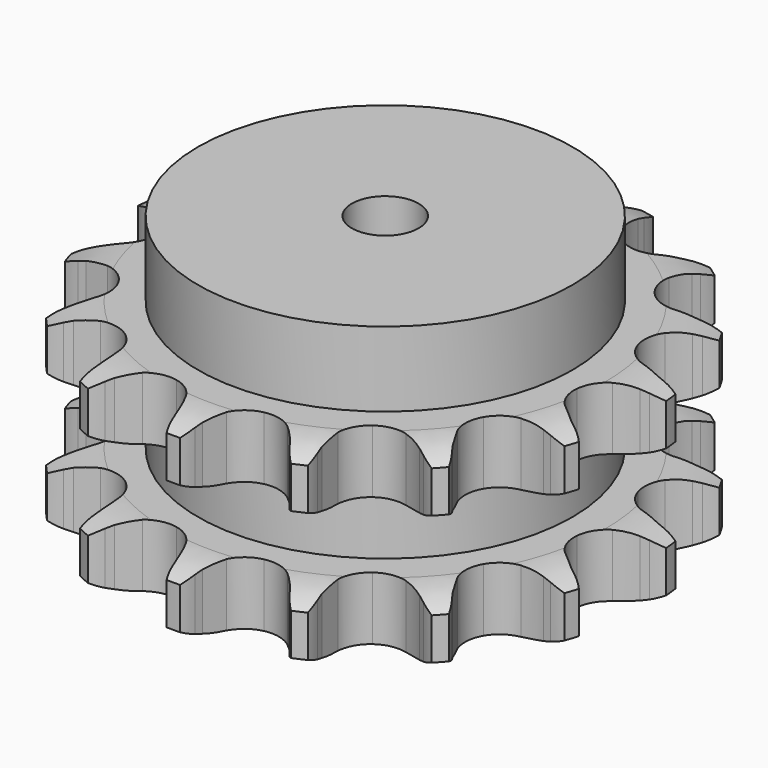
from build123d import *

# Parameters (mm, degrees)
PAD_DEPTH         = 72
SKETCH001_R       = 70
PAD001_DEPTH      = 100
SKETCH002_R       = 12.5
POCKET_DEPTH      = 0.001
POCKET_DEPTH_BACK = 100.001


with BuildPart() as part:
    # Sprocket → Pad (new body)
    with BuildSketch(Plane.XY):
        with BuildLine():
            ThreePointArc((-21.417611, 100.761939), (-18.006479, 97.286525), (-15.475786, 93.126005))
            Line((-15.475786, 93.126005), (-14.291581, 90.5553))
            ThreePointArc((-14.291581, 90.5553), (-12.337873, 86.926869), (-9.948712, 83.569131))
            ThreePointArc((-9.948712, 83.569131), (-5.511231, 80.070903), (0, 78.823839))
            ThreePointArc((0, 78.823839), (5.511231, 80.070903), (9.948712, 83.569131))
            ThreePointArc((9.948712, 83.569131), (12.337873, 86.926869), (14.291581, 90.5553))
            Line((14.291581, 90.5553), (15.475786, 93.126005))
            ThreePointArc((15.475786, 93.126005), (18.006479, 97.286525), (21.417611, 100.761939))
            ThreePointArc((21.417611, 100.761939), (23.120258, 96.199558), (23.739924, 91.369408))
            Line((23.739924, 91.369408), (23.776149, 88.539292))
            ThreePointArc((23.776149, 88.539292), (24.085135, 84.429911), (24.902028, 80.390706))
            ThreePointArc((24.902028, 80.390706), (27.533011, 75.39003), (32.060544, 72.00916))
            ThreePointArc((32.060544, 72.00916), (37.60253, 70.906791), (43.079228, 72.297695))
            Line((43.079228, 72.297695), (49.888168, 76.913473))
            ThreePointArc((49.888168, 76.913473), (50.931931, 77.869606), (52.015593, 78.78027))
            ThreePointArc((52.015593, 78.78027), (56.019731, 81.551768), (60.549534, 83.339284))
            ThreePointArc((60.549534, 83.339284), (60.249292, 78.478813), (58.850787, 73.814211))
            Line((58.850787, 73.814211), (57.732768, 71.214037))
            ThreePointArc((57.732768, 71.214037), (56.343604, 67.334254), (55.44698, 63.311997))
            ThreePointArc((55.44698, 63.311997), (55.816544, 57.673535), (58.577528, 52.743443))
            ThreePointArc((58.577528, 52.743443), (63.192011, 49.48225), (68.760955, 48.52533))
            Line((68.760955, 48.52533), (76.858637, 49.972608))
            ThreePointArc((76.858637, 49.972608), (78.201056, 50.421542), (79.561431, 50.81271))
            ThreePointArc((79.561431, 50.81271), (84.346664, 51.71597), (89.211893, 51.50651))
            ThreePointArc((89.211893, 51.50651), (86.960676, 47.188368), (83.785813, 43.495866))
            Line((83.785813, 43.495866), (81.706866, 41.575228))
            ThreePointArc((81.706866, 41.575228), (78.859752, 38.595894), (76.404646, 35.286069))
            ThreePointArc((76.404646, 35.286069), (74.448891, 29.984762), (74.965926, 24.357906))
            ThreePointArc((74.965926, 24.357906), (77.855019, 19.501778), (82.553288, 16.362495))
            Line((82.553288, 16.362495), (90.539549, 14.391025))
            ThreePointArc((90.539549, 14.391025), (91.948508, 14.255136), (93.350375, 14.059171))
            ThreePointArc((93.350375, 14.059171), (98.089291, 12.938011), (102.448705, 10.767793))
            ThreePointArc((102.448705, 10.767793), (98.635769, 7.738626), (94.233511, 5.65669))
            Line((94.233511, 5.65669), (91.553105, 4.747684))
            ThreePointArc((91.553105, 4.747684), (87.740333, 3.183952), (84.151254, 1.158859))
            ThreePointArc((84.151254, 1.158859), (80.208347, -2.888649), (78.392034, -8.239335))
            ThreePointArc((78.392034, -8.239335), (79.056186, -13.850728), (82.071407, -18.629565))
            Line((82.071407, -18.629565), (88.565351, -23.678897))
            ThreePointArc((88.565351, -23.678897), (89.797228, -24.376113), (90.998191, -25.125327))
            ThreePointArc((90.998191, -25.125327), (94.87139, -28.077048), (97.971205, -31.832774))
            ThreePointArc((97.971205, -31.832774), (93.255841, -33.049195), (88.387379, -33.160578))
            Line((88.387379, -33.160578), (85.568981, -32.900777))
            ThreePointArc((85.568981, -32.900777), (81.449813, -32.778523), (77.347347, -33.168729))
            ThreePointArc((77.347347, -33.168729), (72.099052, -35.262586), (68.263447, -39.41192))
            ThreePointArc((68.263447, -39.41192), (66.587821, -44.808318), (67.398635, -50.400403))
            Line((67.398635, -50.400403), (71.277399, -57.654522))
            ThreePointArc((71.277399, -57.654522), (72.119192, -58.792511), (72.911593, -59.965427))
            ThreePointArc((72.911593, -59.965427), (75.249363, -64.23733), (76.553593, -68.929165))
            ThreePointArc((76.553593, -68.929165), (71.751132, -68.12251), (67.258267, -66.244082))
            Line((67.258267, -66.244082), (64.789202, -64.860395))
            ThreePointArc((64.789202, -64.860395), (61.07588, -63.073294), (57.16938, -61.761141))
            ThreePointArc((57.16938, -61.761141), (51.523176, -61.539301), (46.33149, -63.769826))
            ThreePointArc((46.33149, -63.769826), (42.605817, -68.018142), (41.072026, -73.456554))
            Line((41.072026, -73.456554), (41.664937, -81.661157))
            ThreePointArc((41.664937, -81.661157), (41.971092, -83.043149), (42.217918, -84.43696))
            ThreePointArc((42.217918, -84.43696), (42.616037, -89.290395), (41.89917, -94.107077))
            ThreePointArc((41.89917, -94.107077), (37.84, -91.416824), (34.499588, -87.873382))
            Line((34.499588, -87.873382), (32.806781, -85.605062))
            ThreePointArc((32.806781, -85.605062), (30.141373, -82.46212), (27.106308, -79.674492))
            ThreePointArc((27.106308, -79.674492), (22.038474, -77.175313), (16.388398, -77.101349))
            ThreePointArc((16.388398, -77.101349), (11.25688, -79.467011), (7.643691, -83.811399))
            Line((7.643691, -83.811399), (4.848229, -91.547836))
            ThreePointArc((4.848229, -91.547836), (4.565808, -92.934872), (4.224382, -94.308575))
            ThreePointArc((4.224382, -94.308575), (2.614012, -98.904338), (0, -103.013021))
            ThreePointArc((0, -103.013021), (-2.614012, -98.904338), (-4.224382, -94.308575))
            Line((-4.224382, -94.308575), (-4.848229, -91.547836))
            ThreePointArc((-4.848229, -91.547836), (-6.004852, -87.592496), (-7.643691, -83.811399))
            ThreePointArc((-7.643691, -83.811399), (-11.25688, -79.467011), (-16.388398, -77.101349))
            ThreePointArc((-16.388398, -77.101349), (-22.038474, -77.175313), (-27.106308, -79.674492))
            Line((-27.106308, -79.674492), (-32.806781, -85.605062))
            ThreePointArc((-32.806781, -85.605062), (-33.628945, -86.757312), (-34.499588, -87.873382))
            ThreePointArc((-34.499588, -87.873382), (-37.84, -91.416824), (-41.89917, -94.107077))
            ThreePointArc((-41.89917, -94.107077), (-42.616037, -89.290395), (-42.217918, -84.43696))
            Line((-42.217918, -84.43696), (-41.664937, -81.661157))
            ThreePointArc((-41.664937, -81.661157), (-41.112783, -77.577334), (-41.072026, -73.456554))
            ThreePointArc((-41.072026, -73.456554), (-42.605817, -68.018142), (-46.33149, -63.769826))
            ThreePointArc((-46.33149, -63.769826), (-51.523176, -61.539301), (-57.16938, -61.761141))
            Line((-57.16938, -61.761141), (-64.789202, -64.860395))
            ThreePointArc((-64.789202, -64.860395), (-66.008947, -65.578624), (-67.258267, -66.244082))
            ThreePointArc((-67.258267, -66.244082), (-71.751132, -68.12251), (-76.553593, -68.929165))
            ThreePointArc((-76.553593, -68.929165), (-75.249363, -64.23733), (-72.911593, -59.965427))
            Line((-72.911593, -59.965427), (-71.277399, -57.654522))
            ThreePointArc((-71.277399, -57.654522), (-69.11194, -54.148345), (-67.398635, -50.400403))
            ThreePointArc((-67.398635, -50.400403), (-66.587821, -44.808318), (-68.263447, -39.41192))
            ThreePointArc((-68.263447, -39.41192), (-72.099052, -35.262586), (-77.347347, -33.168729))
            Line((-77.347347, -33.168729), (-85.568981, -32.900777))
            ThreePointArc((-85.568981, -32.900777), (-86.975404, -33.060797), (-88.387379, -33.160578))
            ThreePointArc((-88.387379, -33.160578), (-93.255841, -33.049195), (-97.971205, -31.832774))
            ThreePointArc((-97.971205, -31.832774), (-94.87139, -28.077048), (-90.998191, -25.125327))
            Line((-90.998191, -25.125327), (-88.565351, -23.678897))
            ThreePointArc((-88.565351, -23.678897), (-85.161015, -21.356616), (-82.071407, -18.629565))
            ThreePointArc((-82.071407, -18.629565), (-79.056186, -13.850728), (-78.392034, -8.239335))
            ThreePointArc((-78.392034, -8.239335), (-80.208347, -2.888649), (-84.151254, 1.158859))
            Line((-84.151254, 1.158859), (-91.553105, 4.747684))
            ThreePointArc((-91.553105, 4.747684), (-92.903022, 5.173543), (-94.233511, 5.65669))
            ThreePointArc((-94.233511, 5.65669), (-98.635769, 7.738626), (-102.448705, 10.767793))
            ThreePointArc((-102.448705, 10.767793), (-98.089291, 12.938011), (-93.350375, 14.059171))
            Line((-93.350375, 14.059171), (-90.539549, 14.391025))
            ThreePointArc((-90.539549, 14.391025), (-86.484977, 15.127866), (-82.553288, 16.362495))
            ThreePointArc((-82.553288, 16.362495), (-77.855019, 19.501778), (-74.965926, 24.357906))
            ThreePointArc((-74.965926, 24.357906), (-74.448891, 29.984762), (-76.404646, 35.286069))
            Line((-76.404646, 35.286069), (-81.706866, 41.575228))
            ThreePointArc((-81.706866, 41.575228), (-82.766865, 42.51333), (-83.785813, 43.495866))
            ThreePointArc((-83.785813, 43.495866), (-86.960676, 47.188368), (-89.211893, 51.50651))
            ThreePointArc((-89.211893, 51.50651), (-84.346664, 51.71597), (-79.561431, 50.81271))
            Line((-79.561431, 50.81271), (-76.858637, 49.972608))
            ThreePointArc((-76.858637, 49.972608), (-72.854901, 48.996602), (-68.760955, 48.52533))
            ThreePointArc((-68.760955, 48.52533), (-63.192011, 49.48225), (-58.577528, 52.743443))
            ThreePointArc((-58.577528, 52.743443), (-55.816544, 57.673535), (-55.44698, 63.311997))
            Line((-55.44698, 63.311997), (-57.732768, 71.214037))
            ThreePointArc((-57.732768, 71.214037), (-58.319564, 72.502176), (-58.850787, 73.814211))
            ThreePointArc((-58.850787, 73.814211), (-60.249292, 78.478813), (-60.549534, 83.339284))
            ThreePointArc((-60.549534, 83.339284), (-56.019731, 81.551768), (-52.015593, 78.78027))
            Line((-52.015593, 78.78027), (-49.888168, 76.913473))
            ThreePointArc((-49.888168, 76.913473), (-46.62755, 74.393381), (-43.079228, 72.297695))
            ThreePointArc((-43.079228, 72.297695), (-37.60253, 70.906791), (-32.060544, 72.00916))
            ThreePointArc((-32.060544, 72.00916), (-27.533011, 75.39003), (-24.902028, 80.390706))
            Line((-24.902028, 80.390706), (-23.776149, 88.539292))
            ThreePointArc((-23.776149, 88.539292), (-23.788281, 89.954738), (-23.739924, 91.369408))
            ThreePointArc((-23.739924, 91.369408), (-23.120258, 96.199558), (-21.417611, 100.761939))
        make_face()
    extrude(amount=PAD_DEPTH)

    # Sketch → Groove (revolve, cut)
    with BuildSketch(Plane.XZ):
        with BuildLine():
            ThreePointArc((82.129437, 0), (90.847235, 1.013516), (99.1, 4))
            Line((99.1, 4), (99.1, 19.6))
            ThreePointArc((99.1, 19.6), (90.847235, 22.586484), (82.129437, 23.6))
            Line((70, 23.6), (82.129437, 23.6))
            Line((70, 48.4), (70, 23.6))
            Line((82.129437, 48.4), (70, 48.4))
            ThreePointArc((82.129437, 48.4), (90.847235, 49.413516), (99.1, 52.4))
            Line((99.1, 52.4), (99.1, 68))
            ThreePointArc((99.1, 68), (90.847235, 70.986484), (82.129437, 72))
            Line((82.129437, 72), (109.1, 72))
            Line((109.1, 72), (109.1, 0))
            Line((82.129437, 0), (109.1, 0))
        make_face()
    revolve(axis=Axis((0, 0, 0), (0, 0, 1)), mode=Mode.SUBTRACT)

    # Sketch001 → Pad001 (join)
    with BuildSketch(Plane.XY):
        Circle(SKETCH001_R)
    extrude(amount=PAD001_DEPTH)

    # Sketch002 → Pocket (cut, two sides)
    with BuildSketch(Plane.XY) as pocket_sk:
        Circle(SKETCH002_R)
    extrude(amount=-POCKET_DEPTH, mode=Mode.SUBTRACT)
    extrude(pocket_sk.sketch, amount=POCKET_DEPTH_BACK, mode=Mode.SUBTRACT)


solid = part.part
